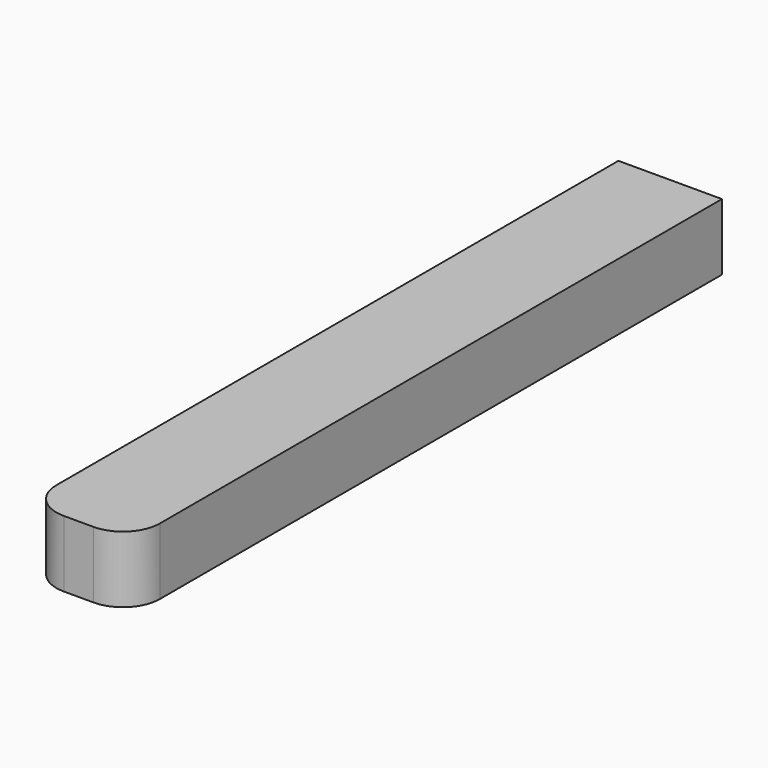
from build123d import *

# Parameters (mm, degrees)
F0_W     = 14
F0_H     = 9
F1_DEPTH = 100
F2_R     = 5


with BuildPart() as f1:
    # F0 (on Front) → F1 (new body)
    with BuildSketch(Plane.XZ):
        Rectangle(F0_W, F0_H)
    extrude(amount=-F1_DEPTH)

    # F2
    f2_edges = [f1.edges().sort_by_distance(p)[0] for p in [
        (-7, 0, 0),
        (7, 0, 0),
    ]]
    fillet(f2_edges, radius=F2_R)


solid = f1.part
